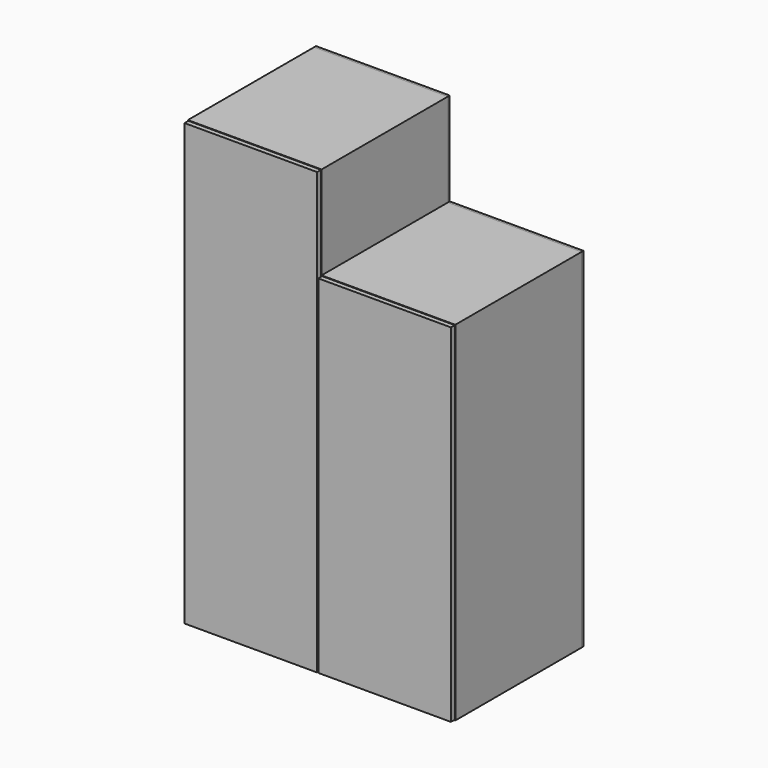
from build123d import *

# Parameters (mm, degrees)
F1_DEPTH = 590
F2_W     = 590
F2_H     = 18
F3_DEPTH = 464
F5_DEPTH = 9
F6_W     = 496
F6_H     = 1647.351351
F7_DEPTH = 18
F8_W     = 496
F8_H     = 1298.702703
F9_DEPTH = 18


with BuildPart() as f1:
    # F0 (on Front) → F1 (new body)
    with BuildSketch(Plane.XZ):
        Polygon((-2100, 1651.351351), (-2100, 0), (-1100, 0), (-1100, 1302.702703), (-1600, 1302.702703), (-1600, 1651.351351), align=None)
        Polygon((-1618, 1633.351351), (-1618, 1284.702703), (-1118, 1284.702703), (-1118, 18), (-2082, 18), (-2082, 1633.351351), align=None, mode=Mode.SUBTRACT)
    extrude(amount=F1_DEPTH)

    # F2 (on face) → F3 (join, through all)
    with BuildSketch(Plane(origin=(-1618, 0, 0), x_dir=(0, -1, 0), z_dir=(-1, 0, 0))):
        with Locations((295, 1293.702703)):
            Rectangle(F2_W, F2_H)
    extrude(amount=F3_DEPTH)


with BuildPart() as f5:
    # F4 (on face) → F5 (new body)
    with BuildSketch(Plane(origin=(0, 0, 0), x_dir=(-1, 0, 0), z_dir=(0, 1, 0))):
        Polygon((1100, 1302.702703), (1100, 0), (2100, 0), (2100, 1651.351351), (1600, 1651.351351), (1600, 1302.702703), align=None)
    extrude(amount=F5_DEPTH)


with BuildPart() as f7:
    # F6 (on face) → F7 (new body)
    with BuildSketch(Plane.XZ.offset(590)):
        with Locations((-1850, 825.675676)):
            Rectangle(F6_W, F6_H)
    extrude(amount=F7_DEPTH)


with BuildPart() as f9:
    # F8 (on face) → F9 (new body)
    with BuildSketch(Plane.XZ.offset(590)):
        with Locations((-1350, 651.351351)):
            Rectangle(F8_W, F8_H)
    extrude(amount=F9_DEPTH)


solid = Compound([f1.part, f5.part, f7.part, f9.part])
